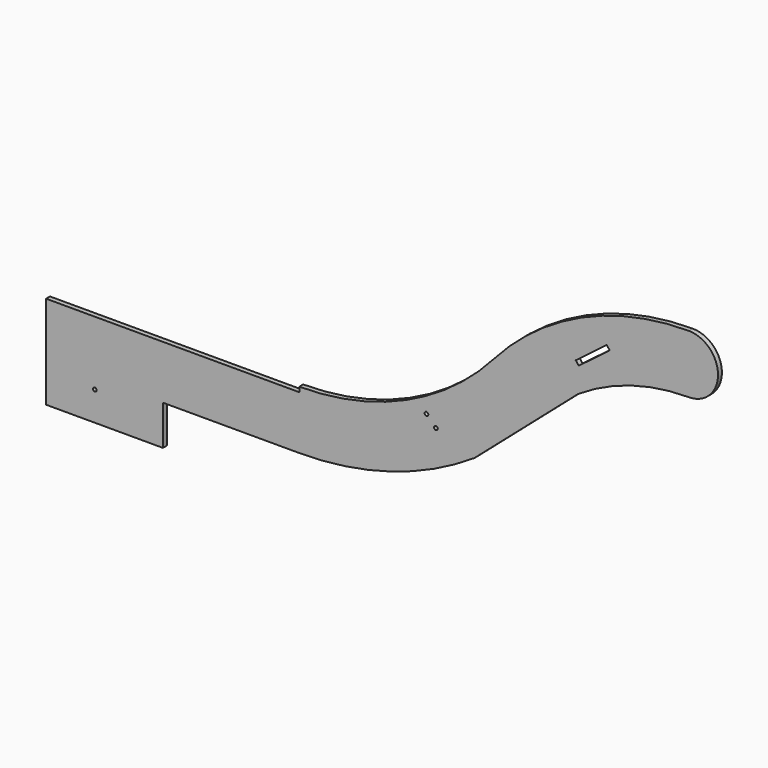
from build123d import *

# Parameters (mm, degrees)
F0_R     = 4.7625
F1_DEPTH = 12.7
F2_W     = 304.8
F2_H     = 103.840124
F2_R     = 4.7625
F3_DEPTH = 12.7


with BuildPart() as f1:
    # F0 (on Front) → F1 (new body)
    with BuildSketch(Plane.XZ):
        with BuildLine():
            ThreePointArc((-570.950153, 813.38195), (-800.269597, 644.048616), (-1078.950153, 584.062505))
            Line((-1078.950153, 584.062505), (-1078.950153, 571.362505))
            Line((-1078.950153, 571.362505), (-1739.350153, 571.362505))
            Line((-1739.350153, 571.362505), (-1739.350153, 517.387505))
            Line((-1739.350153, 517.387505), (-1739.350153, 498.337505))
            Line((-1739.350153, 498.337505), (-1739.350153, 431.662505))
            Line((-1739.350153, 431.662505), (-1078.950153, 431.662505))
            ThreePointArc((-1078.950153, 431.662505), (-840.528034, 466.655442), (-622.216208, 568.682689))
            Line((-622.216208, 568.682689), (-351.904281, 803.615156))
            ThreePointArc((-351.904281, 803.615156), (-213.788636, 868.163006), (-62.950153, 890.301394))
            ThreePointArc((-62.950153, 890.301394), (13.249847, 966.501394), (-62.950153, 1042.701394))
            ThreePointArc((-62.950153, 1042.701394), (-341.630708, 982.715283), (-570.950153, 813.38195))
        make_face()
        with Locations((-722.51368, 604.881358)):
            Circle(F0_R, mode=Mode.SUBTRACT)
        with Locations((-747.209384, 629.577062)):
            Circle(F0_R, mode=Mode.SUBTRACT)
        Polygon((-357.898706, 879.210343), (-317.464643, 909.96301), (-277.03058, 940.715678), (-269.342413, 930.607162), (-350.210539, 869.101827), align=None, mode=Mode.SUBTRACT)
    extrude(amount=F1_DEPTH)

    # F2 (on face) → F3 (join)
    with BuildSketch(Plane.XZ.offset(12.7)):
        with Locations((-1586.950153, 379.742443)):
            Rectangle(F2_W, F2_H)
        with Locations((-1612.350153, 404.022381)):
            Circle(F2_R, mode=Mode.SUBTRACT)
    extrude(amount=-F3_DEPTH)


solid = f1.part
